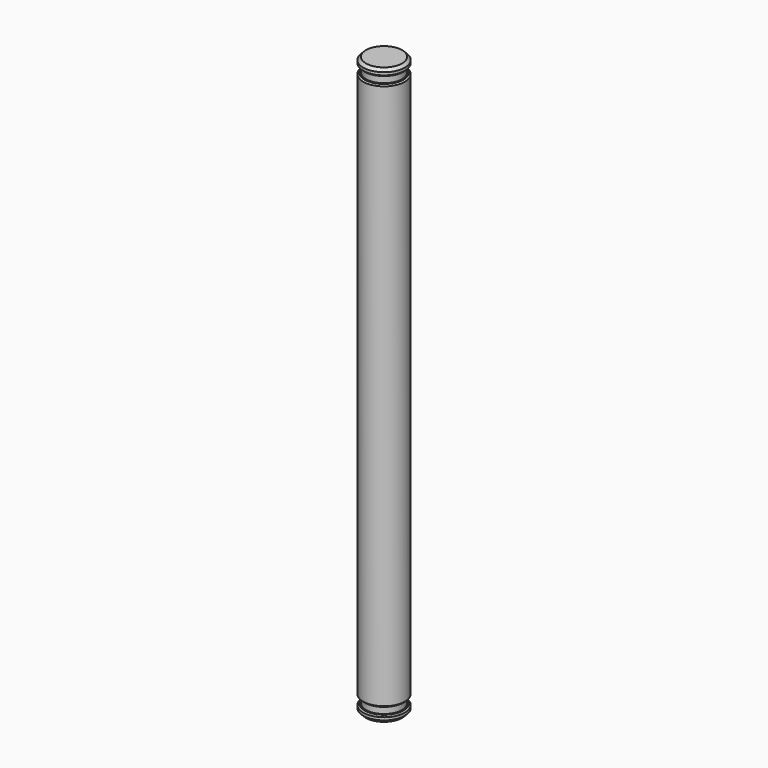
from build123d import *

# Parameters (mm, degrees)
F0_R        = 1.5
F0_R_2      = 1.3
F1_DEPTH    = 39.5
F2_DEPTH    = 1
F3_START    = -0.5
F3_DEPTH    = 0.5
F4_R        = 1.3
F5_DEPTH    = 1
F6_START    = 0.5
F1_FACE_R   = 1.5
F1_FACE_R_2 = 1.3
F6_DEPTH    = 0.5
F7_SIZE     = 0.2
F8_SIZE     = 0.1


with BuildPart() as f1:
    # F0 (on Top) → F1 (new body)
    with BuildSketch(Plane.XY):
        Circle(F0_R)
        Circle(F0_R_2, mode=Mode.SUBTRACT)
        Circle(F0_R_2)
    extrude(amount=F1_DEPTH)

    # F0 (on Top) → F2 (join)
    with BuildSketch(Plane.XY):
        Circle(F0_R_2)
    extrude(amount=-F2_DEPTH)

    # F0 (on Top) → F3 (join)
    with BuildSketch(Plane.XY.offset(F3_START)):
        Circle(F0_R)
        Circle(F0_R_2, mode=Mode.SUBTRACT)
    extrude(amount=-F3_DEPTH)

    # F4 (on face) → F5 (join)
    with BuildSketch(Plane.XY.offset(39.5)):
        Circle(F4_R)
    extrude(amount=F5_DEPTH)

    # F1_face (on face) → F6 (join)
    with BuildSketch(Plane.XY.offset(39.5).offset(F6_START)):
        Circle(F1_FACE_R)
        Circle(F1_FACE_R_2, mode=Mode.SUBTRACT)
    extrude(amount=F6_DEPTH)

    # F7
    f7_edges = [f1.edges().sort_by_distance(p)[0] for p in [
        (-1.5, 0, -1),
        (-1.5, 0, 40.5),
    ]]
    chamfer(f7_edges, length=F7_SIZE)

    # F8
    f8_edges = [f1.edges().sort_by_distance(p)[0] for p in [
        (-1.5, 0, -0.5),
        (-1.5, 0, 0),
        (-1.5, 0, 39.5),
        (-1.5, 0, 40),
    ]]
    chamfer(f8_edges, length=F8_SIZE)


solid = f1.part
